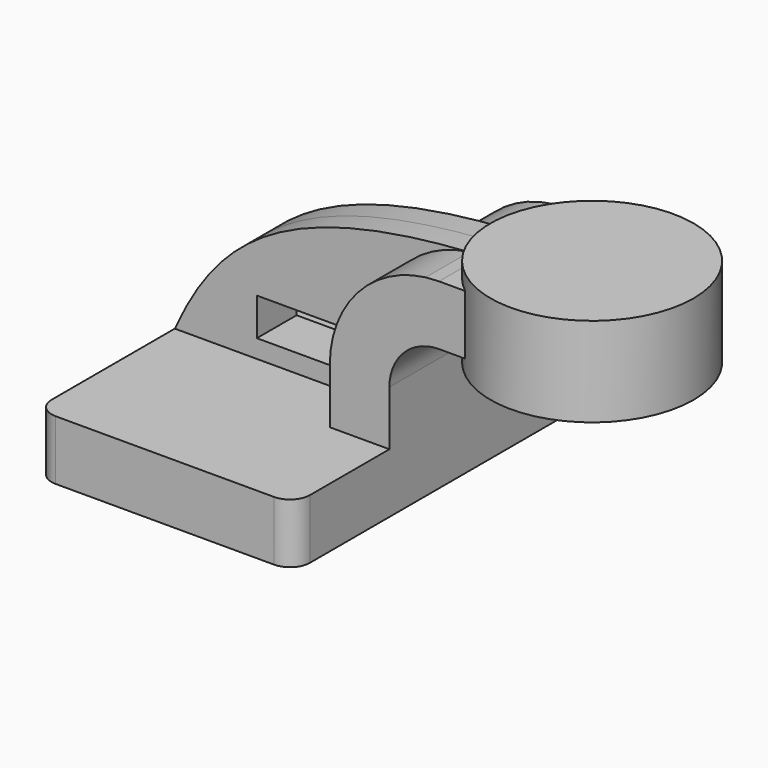
from build123d import *

# Parameters (mm, degrees)
F1_DEPTH = 63.5
F0_W     = 28.432126
F0_H     = 12.001499
F2_DEPTH = 7.9375
F0_W_2   = 18.334983
F0_H_2   = 4.7498
F3_DEPTH = 25.4
F5_R     = 6.35


with BuildPart() as f1:
    # F0 (on Front) → F1 (new body, symmetric)
    with BuildSketch(Plane.XZ):
        Polygon((-41.275, 9.525), (-41.275, -9.525), (41.275, -9.525), (41.275, 9.525), (22.225, 9.525), align=None)
    extrude(amount=F1_DEPTH, both=True)

    # F0 (on Front) → F2 (join, symmetric)
    with BuildSketch(Plane.XZ):
        with BuildLine():
            add(Edge.make_bspline(
                [(-41.275, 9.525), (-27.868627, 39.151042), (-7.652168, 57.55358), (52.874146, 61.662466)],
                knots=[0, 0, 0, 0, 108.977586, 108.977586, 108.977586, 108.977586], degree=3))
            Line((-41.275, 9.525), (22.225, 9.525))
            Line((22.225, 9.525), (22.225, 27.0002))
            ThreePointArc((22.225, 27.0002), (30.986191, 50.134821), (52.874146, 61.662466))
        make_face()
        with Locations((-0.836268, 21.359812)):
            Rectangle(F0_W, F0_H, mode=Mode.SUBTRACT)
    extrude(amount=F2_DEPTH, both=True)

    # F0 (on Front) → F3 (join, symmetric)
    with BuildSketch(Plane.XZ):
        with BuildLine():
            Line((22.225, 9.525), (41.275, 9.525))
            Line((41.275, 9.525), (41.275, 27.0002))
            ThreePointArc((41.275, 27.0002), (45.92468, 38.22552), (57.15, 42.8752))
            Line((57.15, 42.8752), (67.390017, 42.8752))
            Line((67.390017, 42.8752), (67.390017, 61.9252))
            Line((67.390017, 61.9252), (57.15, 61.9252))
            add(Edge.make_bspline(
                [(52.874146, 61.662466), (54.277618, 61.757742), (55.702763, 61.845333), (57.15, 61.9252)],
                knots=[108.977586, 108.977586, 108.977586, 108.977586, 111.504536, 111.504536, 111.504536, 111.504536], degree=3))
            ThreePointArc((52.874146, 61.662466), (30.986191, 50.134821), (22.225, 27.0002))
            Line((22.225, 27.0002), (22.225, 9.525))
        make_face()
        with Locations((76.557508, 64.3001)):
            Rectangle(F0_W_2, F0_H_2)
    extrude(amount=F3_DEPTH, both=True)

    # F0 (on Front) → F4 (revolve)
    with BuildSketch(Plane.XZ):
        Polygon((85.725, 66.675), (85.725, 61.9252), (85.725, 42.8752), (85.725, 38.1), (118.190017, 38.1), (118.190017, 66.675), align=None)
    revolve(axis=Axis((85.725, 0, 52.4002), (0, 0, 1)))

    # F5
    f5_edges = [f1.edges().sort_by_distance(p)[0] for p in [
        (-41.275, -63.5, 0),
        (41.275, -63.5, 0),
        (41.275, 63.5, 0),
        (-41.275, 63.5, 0),
    ]]
    fillet(f5_edges, radius=F5_R)


solid = f1.part
